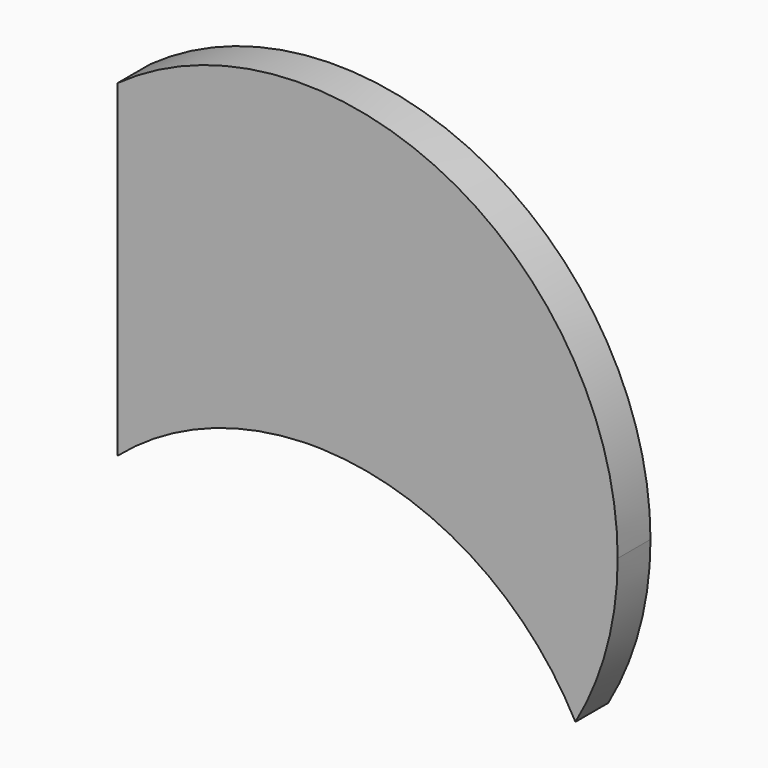
from build123d import *

# Parameters (mm, degrees)
F1_DEPTH = 4.7625


with BuildPart() as f1:
    # F0 (on Front) → F1 (new body)
    with BuildSketch(Plane.XZ):
        with BuildLine():
            Line((2.3615147114, 0), (36.6320805087, 0))
            ThreePointArc((36.6320805087, 0), (16.6760841829, 32.616215886), (-21.4491162974, 29.6958706297))
            Line((-21.4491162974, 29.6958706297), (-21.4491162974, -8.4041293703))
            ThreePointArc((-21.4491162974, -8.4041293703), (-11.4443717477, -2.3649480825), (0, 0))
            ThreePointArc((0, 0), (1.1807573557, 0.0201489579), (2.3615147114, 0))
        make_face()
        with BuildLine():
            ThreePointArc((31.724312314, -18.3160402543), (35.383872634, -9.4810800974), (36.6320805087, 0))
            Line((36.6320805087, 0), (2.3615147114, 0))
            ThreePointArc((2.3615147114, 0), (19.4967976101, -5.2241511746), (31.724312314, -18.3160402543))
        make_face()
    extrude(amount=-F1_DEPTH)


solid = f1.part
